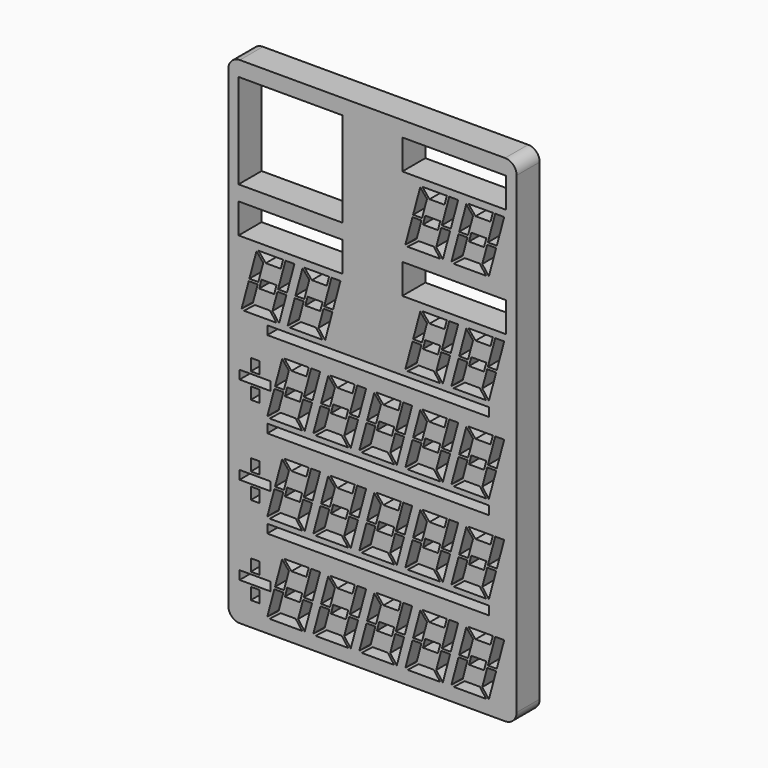
from build123d import *

# Parameters (mm, degrees)
F0_W     = 63.5
F0_H     = 109.22
F1_DEPTH = 6.35
F2_W     = 48.809264
F2_H     = 1.905
F2_W_2   = 1.905
F2_H_2   = 2.6035
F2_W_3   = 22.86
F2_H_3   = 6.604
F2_H_4   = 20.828
F3_DEPTH = 6.351
F4_R     = 2.54


with BuildPart() as f1:
    # F0 (on Front) → F1 (new body)
    with BuildSketch(Plane.XZ):
        Rectangle(F0_W, F0_H)
    extrude(amount=F1_DEPTH)

    # F2 (on face) → F3 (cut, through all)
    with BuildSketch(Plane.XZ.offset(6.35)):
        Polygon((26.521379, -38.9255), (21.110451, -38.9255), (22.708935, -40.8305), (26.010935, -40.8305), align=None)
        Polygon((29.0195, -38.9255), (27.047299, -38.9255), (25.413881, -45.0215), (27.386082, -45.0215), align=None)
        Polygon((27.249964, -45.5295), (25.277762, -45.5295), (24.183684, -49.612654), (25.63856, -51.54334), align=None)
        Polygon((22.149801, -40.954457), (20.65495, -39.172963), (19.087839, -45.0215), (21.06004, -45.0215), align=None)
        Polygon((17.888578, -51.6255), (25.064388, -51.6255), (23.628867, -49.7205), (20.326867, -49.7205), align=None)
        Polygon((19.880169, -49.424837), (20.923922, -45.5295), (18.951721, -45.5295), (17.385781, -51.373667), align=None)
        Polygon((25.075123, -44.323), (21.773123, -44.323), (21.26268, -46.228), (24.56468, -46.228), align=None)
        Polygon((21.773123, -24.892), (21.26268, -26.797), (24.56468, -26.797), (25.075123, -24.892), align=None)
        Polygon((20.923922, -26.0985), (18.951721, -26.0985), (17.385781, -31.942667), (19.880169, -29.993837), align=None)
        Polygon((21.06004, -25.5905), (22.149801, -21.523457), (20.65495, -19.741963), (19.087839, -25.5905), align=None)
        Polygon((27.386082, -25.5905), (29.0195, -19.4945), (27.047299, -19.4945), (25.413881, -25.5905), align=None)
        Polygon((22.708935, -21.3995), (26.010935, -21.3995), (26.521379, -19.4945), (21.110451, -19.4945), align=None)
        Polygon((17.888578, -32.1945), (25.064388, -32.1945), (23.628867, -30.2895), (20.326867, -30.2895), align=None)
        Polygon((27.249964, -26.0985), (25.277762, -26.0985), (24.183684, -30.181654), (25.63856, -32.11234), align=None)
        Polygon((21.773123, -5.461), (21.26268, -7.366), (24.56468, -7.366), (25.075123, -5.461), align=None)
        Polygon((20.923922, -6.6675), (18.951721, -6.6675), (17.385781, -12.511667), (19.880169, -10.562837), align=None)
        Polygon((21.06004, -6.1595), (22.149801, -2.092457), (20.65495, -0.310963), (19.087839, -6.1595), align=None)
        Polygon((27.386082, -6.1595), (29.0195, -0.0635), (27.047299, -0.0635), (25.413881, -6.1595), align=None)
        Polygon((22.708935, -1.9685), (26.010935, -1.9685), (26.521379, -0.0635), (21.110451, -0.0635), align=None)
        Polygon((17.888578, -12.7635), (25.064388, -12.7635), (23.628867, -10.8585), (20.326867, -10.8585), align=None)
        Polygon((27.249964, -6.6675), (25.277762, -6.6675), (24.183684, -10.750654), (25.63856, -12.68134), align=None)
        Polygon((11.634002, -44.323), (11.123558, -46.228), (14.425558, -46.228), (14.936002, -44.323), align=None)
        Polygon((10.784801, -45.5295), (8.812599, -45.5295), (7.24666, -51.373667), (9.741048, -49.424837), align=None)
        Polygon((10.920919, -45.0215), (12.01068, -40.954457), (10.515828, -39.172963), (8.948718, -45.0215), align=None)
        Polygon((17.246961, -45.0215), (18.880379, -38.9255), (16.908178, -38.9255), (15.274759, -45.0215), align=None)
        Polygon((12.569814, -40.8305), (15.871814, -40.8305), (16.382257, -38.9255), (10.971329, -38.9255), align=None)
        Polygon((7.749457, -51.6255), (14.925266, -51.6255), (13.489746, -49.7205), (10.187746, -49.7205), align=None)
        Polygon((17.110842, -45.5295), (15.138641, -45.5295), (14.044563, -49.612654), (15.499439, -51.54334), align=None)
        Polygon((11.634002, -24.892), (11.123558, -26.797), (14.425558, -26.797), (14.936002, -24.892), align=None)
        Polygon((10.784801, -26.0985), (8.812599, -26.0985), (7.24666, -31.942667), (9.741048, -29.993837), align=None)
        Polygon((10.920919, -25.5905), (12.01068, -21.523457), (10.515828, -19.741963), (8.948718, -25.5905), align=None)
        Polygon((17.246961, -25.5905), (18.880379, -19.4945), (16.908178, -19.4945), (15.274759, -25.5905), align=None)
        Polygon((12.569814, -21.3995), (15.871814, -21.3995), (16.382257, -19.4945), (10.971329, -19.4945), align=None)
        Polygon((7.749457, -32.1945), (14.925266, -32.1945), (13.489746, -30.2895), (10.187746, -30.2895), align=None)
        Polygon((17.110842, -26.0985), (15.138641, -26.0985), (14.044563, -30.181654), (15.499439, -32.11234), align=None)
        Polygon((11.634002, -5.461), (11.123558, -7.366), (14.425558, -7.366), (14.936002, -5.461), align=None)
        Polygon((10.784801, -6.6675), (8.812599, -6.6675), (7.24666, -12.511667), (9.741048, -10.562837), align=None)
        Polygon((10.920919, -6.1595), (12.01068, -2.092457), (10.515828, -0.310963), (8.948718, -6.1595), align=None)
        Polygon((17.246961, -6.1595), (18.880379, -0.0635), (16.908178, -0.0635), (15.274759, -6.1595), align=None)
        Polygon((12.569814, -1.9685), (15.871814, -1.9685), (16.382257, -0.0635), (10.971329, -0.0635), align=None)
        Polygon((7.749457, -12.7635), (14.925266, -12.7635), (13.489746, -10.8585), (10.187746, -10.8585), align=None)
        Polygon((17.110842, -6.6675), (15.138641, -6.6675), (14.044563, -10.750654), (15.499439, -12.68134), align=None)
        Polygon((1.49488, -44.323), (0.984437, -46.228), (4.286437, -46.228), (4.79688, -44.323), align=None)
        Polygon((0.645679, -45.5295), (-1.326522, -45.5295), (-2.892462, -51.373667), (-0.398073, -49.424837), align=None)
        Polygon((0.781798, -45.0215), (1.871558, -40.954457), (0.376707, -39.172963), (-1.190404, -45.0215), align=None)
        Polygon((7.107839, -45.0215), (8.741258, -38.9255), (6.769056, -38.9255), (5.135638, -45.0215), align=None)
        Polygon((2.430693, -40.8305), (5.732693, -40.8305), (6.243136, -38.9255), (0.832208, -38.9255), align=None)
        Polygon((-2.389664, -51.6255), (4.786145, -51.6255), (3.350625, -49.7205), (0.048625, -49.7205), align=None)
        Polygon((6.971721, -45.5295), (4.99952, -45.5295), (3.905442, -49.612654), (5.360318, -51.54334), align=None)
        Polygon((1.49488, -24.892), (0.984437, -26.797), (4.286437, -26.797), (4.79688, -24.892), align=None)
        Polygon((0.645679, -26.0985), (-1.326522, -26.0985), (-2.892462, -31.942667), (-0.398073, -29.993837), align=None)
        Polygon((0.781798, -25.5905), (1.871558, -21.523457), (0.376707, -19.741963), (-1.190404, -25.5905), align=None)
        Polygon((7.107839, -25.5905), (8.741258, -19.4945), (6.769056, -19.4945), (5.135638, -25.5905), align=None)
        Polygon((2.430693, -21.3995), (5.732693, -21.3995), (6.243136, -19.4945), (0.832208, -19.4945), align=None)
        Polygon((-2.389664, -32.1945), (4.786145, -32.1945), (3.350625, -30.2895), (0.048625, -30.2895), align=None)
        Polygon((6.971721, -26.0985), (4.99952, -26.0985), (3.905442, -30.181654), (5.360318, -32.11234), align=None)
        Polygon((1.49488, -5.461), (0.984437, -7.366), (4.286437, -7.366), (4.79688, -5.461), align=None)
        Polygon((0.645679, -6.6675), (-1.326522, -6.6675), (-2.892462, -12.511667), (-0.398073, -10.562837), align=None)
        Polygon((0.781798, -6.1595), (1.871558, -2.092457), (0.376707, -0.310963), (-1.190404, -6.1595), align=None)
        Polygon((7.107839, -6.1595), (8.741258, -0.0635), (6.769056, -0.0635), (5.135638, -6.1595), align=None)
        Polygon((2.430693, -1.9685), (5.732693, -1.9685), (6.243136, -0.0635), (0.832208, -0.0635), align=None)
        Polygon((-2.389664, -12.7635), (4.786145, -12.7635), (3.350625, -10.8585), (0.048625, -10.8585), align=None)
        Polygon((6.971721, -6.6675), (4.99952, -6.6675), (3.905442, -10.750654), (5.360318, -12.68134), align=None)
        Polygon((-8.644241, -44.323), (-9.154684, -46.228), (-5.852684, -46.228), (-5.342241, -44.323), align=None)
        Polygon((-9.493442, -45.5295), (-11.465643, -45.5295), (-13.031583, -51.373667), (-10.537194, -49.424837), align=None)
        Polygon((-9.357324, -45.0215), (-8.267563, -40.954457), (-9.762414, -39.172963), (-11.329525, -45.0215), align=None)
        Polygon((-3.031282, -45.0215), (-1.397864, -38.9255), (-3.370065, -38.9255), (-5.003483, -45.0215), align=None)
        Polygon((-7.708428, -40.8305), (-4.406428, -40.8305), (-3.895985, -38.9255), (-9.306913, -38.9255), align=None)
        Polygon((-12.528785, -51.6255), (-5.352976, -51.6255), (-6.788497, -49.7205), (-10.090497, -49.7205), align=None)
        Polygon((-3.1674, -45.5295), (-5.139601, -45.5295), (-6.233679, -49.612654), (-4.778804, -51.54334), align=None)
        Polygon((-8.644241, -24.892), (-9.154684, -26.797), (-5.852684, -26.797), (-5.342241, -24.892), align=None)
        Polygon((-9.493442, -26.0985), (-11.465643, -26.0985), (-13.031583, -31.942667), (-10.537194, -29.993837), align=None)
        Polygon((-9.357324, -25.5905), (-8.267563, -21.523457), (-9.762414, -19.741963), (-11.329525, -25.5905), align=None)
        Polygon((-3.031282, -25.5905), (-1.397864, -19.4945), (-3.370065, -19.4945), (-5.003483, -25.5905), align=None)
        Polygon((-7.708428, -21.3995), (-4.406428, -21.3995), (-3.895985, -19.4945), (-9.306913, -19.4945), align=None)
        Polygon((-12.528785, -32.1945), (-5.352976, -32.1945), (-6.788497, -30.2895), (-10.090497, -30.2895), align=None)
        Polygon((-3.1674, -26.0985), (-5.139601, -26.0985), (-6.233679, -30.181654), (-4.778804, -32.11234), align=None)
        Polygon((-8.644241, -5.461), (-9.154684, -7.366), (-5.852684, -7.366), (-5.342241, -5.461), align=None)
        Polygon((-9.493442, -6.6675), (-11.465643, -6.6675), (-13.031583, -12.511667), (-10.537194, -10.562837), align=None)
        Polygon((-9.357324, -6.1595), (-8.267563, -2.092457), (-9.762414, -0.310963), (-11.329525, -6.1595), align=None)
        Polygon((-3.031282, -6.1595), (-1.397864, -0.0635), (-3.370065, -0.0635), (-5.003483, -6.1595), align=None)
        Polygon((-7.708428, -1.9685), (-4.406428, -1.9685), (-3.895985, -0.0635), (-9.306913, -0.0635), align=None)
        Polygon((-12.528785, -12.7635), (-5.352976, -12.7635), (-6.788497, -10.8585), (-10.090497, -10.8585), align=None)
        Polygon((-3.1674, -6.6675), (-5.139601, -6.6675), (-6.233679, -10.750654), (-4.778804, -12.68134), align=None)
        Polygon((-19.038584, -45.2755), (-19.293805, -46.228), (-15.991805, -46.228), (-15.481362, -44.323), (-18.783362, -44.323), align=None)
        Polygon((-19.632563, -45.5295), (-21.604764, -45.5295), (-23.170704, -51.373667), (-20.676315, -49.424837), align=None)
        Polygon((-19.496445, -45.0215), (-18.406684, -40.954457), (-19.901535, -39.172963), (-21.468646, -45.0215), align=None)
        Polygon((-13.170403, -45.0215), (-11.536985, -38.9255), (-13.509186, -38.9255), (-15.142604, -45.0215), align=None)
        Polygon((-17.847549, -40.8305), (-14.545549, -40.8305), (-14.035106, -38.9255), (-19.446034, -38.9255), align=None)
        Polygon((-22.667907, -51.6255), (-15.492097, -51.6255), (-16.927618, -49.7205), (-20.229618, -49.7205), align=None)
        Polygon((-13.306521, -45.5295), (-15.278722, -45.5295), (-16.3728, -49.612654), (-14.917925, -51.54334), align=None)
        Polygon((-18.783362, -24.892), (-19.293805, -26.797), (-15.991805, -26.797), (-15.481362, -24.892), align=None)
        Polygon((-19.632563, -26.0985), (-21.604764, -26.0985), (-23.170704, -31.942667), (-20.676315, -29.993837), align=None)
        Polygon((-19.496445, -25.5905), (-18.406684, -21.523457), (-19.901535, -19.741963), (-21.468646, -25.5905), align=None)
        Polygon((-13.170403, -25.5905), (-11.536985, -19.4945), (-13.509186, -19.4945), (-15.142604, -25.5905), align=None)
        Polygon((-17.847549, -21.3995), (-14.545549, -21.3995), (-14.035106, -19.4945), (-19.446034, -19.4945), align=None)
        Polygon((-22.667907, -32.1945), (-15.492097, -32.1945), (-16.927618, -30.2895), (-20.229618, -30.2895), align=None)
        Polygon((-13.306521, -26.0985), (-15.278722, -26.0985), (-16.3728, -30.181654), (-14.917925, -32.11234), align=None)
        Polygon((-18.783362, -5.461), (-19.293805, -7.366), (-15.991805, -7.366), (-15.481362, -5.461), align=None)
        Polygon((-19.632563, -6.6675), (-21.604764, -6.6675), (-23.170704, -12.511667), (-20.676315, -10.562837), align=None)
        Polygon((-19.496445, -6.1595), (-18.406684, -2.092457), (-19.901535, -0.310963), (-21.468646, -6.1595), align=None)
        Polygon((-13.170403, -6.1595), (-11.536985, -0.0635), (-13.509186, -0.0635), (-15.142604, -6.1595), align=None)
        Polygon((-17.847549, -1.9685), (-14.545549, -1.9685), (-14.035106, -0.0635), (-19.446034, -0.0635), align=None)
        Polygon((-22.667907, -12.7635), (-15.492097, -12.7635), (-16.927618, -10.8585), (-20.229618, -10.8585), align=None)
        Polygon((-13.306521, -6.6675), (-15.278722, -6.6675), (-16.3728, -10.750654), (-14.917925, -12.68134), align=None)
        Polygon((22.708935, 17.0815), (26.010935, 17.0815), (26.521379, 18.9865), (21.110451, 18.9865), align=None)
        Polygon((21.773123, 13.589), (21.26268, 11.684), (24.56468, 11.684), (25.075123, 13.589), align=None)
        Polygon((12.569814, 17.0815), (15.871814, 17.0815), (16.382257, 18.9865), (10.971329, 18.9865), align=None)
        Polygon((29.0195, 18.9865), (27.047299, 18.9865), (25.413881, 12.8905), (27.386082, 12.8905), align=None)
        Polygon((18.951721, 12.3825), (17.385781, 6.538333), (19.880169, 8.487163), (20.923922, 12.3825), align=None)
        Polygon((21.06004, 12.8905), (22.149801, 16.957543), (20.65495, 18.739037), (19.087839, 12.8905), align=None)
        Polygon((27.249964, 12.3825), (25.277762, 12.3825), (24.183684, 8.299346), (25.63856, 6.36866), align=None)
        Polygon((20.326867, 8.1915), (17.888578, 6.2865), (25.064388, 6.2865), (23.628867, 8.1915), align=None)
        Polygon((15.499439, 6.36866), (17.110842, 12.3825), (15.138641, 12.3825), (14.044563, 8.299346), align=None)
        Polygon((18.880379, 18.9865), (16.908178, 18.9865), (15.274759, 12.8905), (17.246961, 12.8905), align=None)
        Polygon((7.24666, 6.538333), (9.741048, 8.487163), (10.784801, 12.3825), (8.812599, 12.3825), align=None)
        Polygon((10.515828, 18.739037), (8.948718, 12.8905), (10.920919, 12.8905), (12.01068, 16.957543), align=None)
        Polygon((14.925266, 6.2865), (13.489746, 8.1915), (10.187746, 8.1915), (7.749457, 6.2865), align=None)
        Polygon((11.634002, 13.589), (11.123558, 11.684), (14.425558, 11.684), (14.936002, 13.589), align=None)
        Polygon((29.0195, 43.1165), (27.047299, 43.1165), (25.413881, 37.0205), (27.386082, 37.0205), align=None)
        Polygon((24.56468, 35.814), (25.075123, 37.719), (21.773123, 37.719), (21.26268, 35.814), align=None)
        Polygon((22.708935, 41.2115), (26.010935, 41.2115), (26.521379, 43.1165), (21.110451, 43.1165), align=None)
        Polygon((21.06004, 37.0205), (22.149801, 41.087543), (20.65495, 42.869037), (19.087839, 37.0205), align=None)
        Polygon((10.784801, 36.5125), (8.812599, 36.5125), (7.24666, 30.668333), (9.741048, 32.617163), align=None)
        Polygon((20.923922, 36.5125), (18.951721, 36.5125), (17.385781, 30.668333), (19.880169, 32.617163), align=None)
        Polygon((10.515828, 42.869037), (8.948718, 37.0205), (10.920919, 37.0205), (12.01068, 41.087543), align=None)
        Polygon((27.249964, 36.5125), (25.277762, 36.5125), (24.183684, 32.429346), (25.63856, 30.49866), align=None)
        Polygon((15.499439, 30.49866), (17.110842, 36.5125), (15.138641, 36.5125), (14.044563, 32.429346), align=None)
        Polygon((17.246961, 37.0205), (18.880379, 43.1165), (16.908178, 43.1165), (15.274759, 37.0205), align=None)
        Polygon((14.925266, 30.4165), (13.489746, 32.3215), (10.187746, 32.3215), (7.749457, 30.4165), align=None)
        Polygon((16.382257, 43.1165), (10.971329, 43.1165), (12.569814, 41.2115), (15.871814, 41.2115), align=None)
        Polygon((17.888578, 30.4165), (25.064388, 30.4165), (23.628867, 32.3215), (20.326867, 32.3215), align=None)
        Polygon((11.634002, 37.719), (11.123558, 35.814), (14.425558, 35.814), (14.936002, 37.719), align=None)
        Polygon((-10.42944, 6.36866), (-8.818036, 12.3825), (-10.790238, 12.3825), (-11.884316, 8.299346), align=None)
        Polygon((-18.821039, 12.8905), (-17.187621, 18.9865), (-19.159822, 18.9865), (-20.793241, 12.8905), align=None)
        Polygon((-15.144078, 12.3825), (-17.116279, 12.3825), (-18.682219, 6.538333), (-16.187831, 8.487163), align=None)
        Polygon((-25.283199, 12.3825), (-27.255401, 12.3825), (-28.82134, 6.538333), (-26.326952, 8.487163), align=None)
        Polygon((-19.685743, 18.9865), (-25.096671, 18.9865), (-23.498186, 17.0815), (-20.196186, 17.0815), align=None)
        Polygon((-9.546621, 18.9865), (-14.957549, 18.9865), (-13.359065, 17.0815), (-10.057065, 17.0815), align=None)
        Polygon((-15.41305, 18.739037), (-16.980161, 12.8905), (-15.00796, 12.8905), (-13.918199, 16.957543), align=None)
        Polygon((-25.552172, 18.739037), (-27.119282, 12.8905), (-25.147081, 12.8905), (-24.05732, 16.957543), align=None)
        Polygon((-28.318543, 6.2865), (-21.142734, 6.2865), (-22.578254, 8.1915), (-25.880254, 8.1915), align=None)
        Polygon((-18.179422, 6.2865), (-11.003612, 6.2865), (-12.439133, 8.1915), (-15.741133, 8.1915), align=None)
        Polygon((-8.681918, 12.8905), (-7.0485, 18.9865), (-9.020701, 18.9865), (-10.654119, 12.8905), align=None)
        Polygon((-20.568561, 6.36866), (-18.957158, 12.3825), (-20.929359, 12.3825), (-22.023437, 8.299346), align=None)
        Polygon((-14.294877, 13.589), (-14.80532, 11.684), (-11.50332, 11.684), (-10.992877, 13.589), align=None)
        Polygon((-24.433998, 13.589), (-24.944442, 11.684), (-21.642442, 11.684), (-21.131998, 13.589), align=None)
        with Locations((1.233928, -34.29)):
            Rectangle(F2_W, F2_H)
        with Locations((1.233928, -14.859)):
            Rectangle(F2_W, F2_H)
        Polygon((-25.8445, -44.323), (-29.2735, -44.323), (-29.2735, -46.228), (-22.4155, -46.228), (-22.4155, -45.2755), (-22.4155, -44.323), align=None)
        Polygon((-24.892, -41.2115), (-26.797, -41.2115), (-26.797, -43.815), (-25.8445, -43.815), (-24.892, -43.815), align=None)
        with Locations((-25.8445, -48.03775)):
            Rectangle(F2_W_2, F2_H_2)
        with Locations((1.233928, 4.191)):
            Rectangle(F2_W, F2_H)
        with Locations((17.997855, 23.8125)):
            Rectangle(F2_W_3, F2_H_3)
        with Locations((17.997855, 47.9425)):
            Rectangle(F2_W_3, F2_H_3)
        with Locations((-18.070145, 23.8125)):
            Rectangle(F2_W_3, F2_H_3)
        with Locations((-18.070145, 40.8305)):
            Rectangle(F2_W_3, F2_H_4)
        Polygon((-22.4155, -24.892), (-25.8445, -24.892), (-29.2735, -24.892), (-29.2735, -26.797), (-22.4155, -26.797), (-22.4155, -25.8445), align=None)
        Polygon((-24.892, -21.7805), (-26.797, -21.7805), (-26.797, -24.384), (-25.8445, -24.384), (-24.892, -24.384), align=None)
        with Locations((-25.8445, -28.60675)):
            Rectangle(F2_W_2, F2_H_2)
        Polygon((-22.4155, -5.461), (-25.8445, -5.461), (-29.2735, -5.461), (-29.2735, -7.366), (-22.4155, -7.366), (-22.4155, -6.4135), align=None)
        Polygon((-24.892, -2.3495), (-26.797, -2.3495), (-26.797, -4.953), (-25.8445, -4.953), (-24.892, -4.953), align=None)
        with Locations((-25.8445, -9.17575)):
            Rectangle(F2_W_2, F2_H_2)
    extrude(amount=-F3_DEPTH, mode=Mode.SUBTRACT)

    # F4
    f4_edges = [f1.edges().sort_by_distance(p)[0] for p in [
        (-31.75, -3.175, 54.61),
        (31.75, -3.175, 54.61),
        (31.75, -3.175, -54.61),
        (-31.75, -3.175, -54.61),
    ]]
    fillet(f4_edges, radius=F4_R)


solid = f1.part
